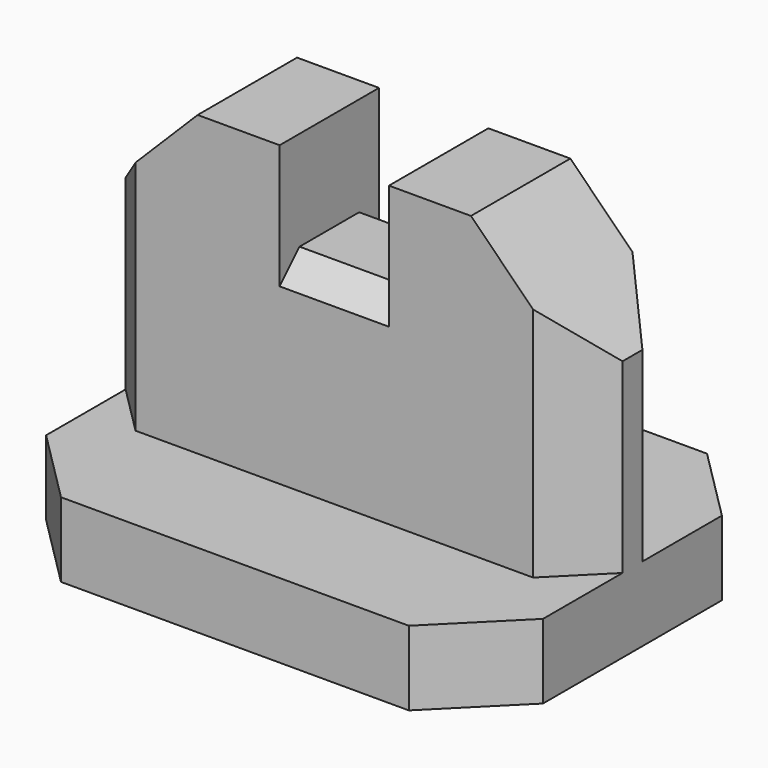
from build123d import *

# Parameters (mm, degrees)
F0_W     = 7.8
F0_H     = 5
F0_W_2   = 4.4
F1_DEPTH = 3
F2_DEPTH = 12
F3_DEPTH = 8
F4_SIZE  = 2
F5_SIZE  = 4.5
F6_SIZE  = 3
F7_SIZE  = 1


with BuildPart() as f1:
    # F0 (on Top) → F1 (new body)
    with BuildSketch(Plane.XY):
        Polygon((0, 15), (0, 10), (7.8, 10), (12.2, 10), (20, 10), (20, 15), align=None)
        with Locations((3.9, 7.5)):
            Rectangle(F0_W, F0_H)
        with Locations((10, 7.5)):
            Rectangle(F0_W_2, F0_H)
        with Locations((16.1, 7.5)):
            Rectangle(F0_W, F0_H)
        Polygon((0, 5), (0, 0), (20, 0), (20, 5), (12.2, 5), (7.8, 5), align=None)
    extrude(amount=-F1_DEPTH)

    # F0 (on Top) → F2 (join)
    with BuildSketch(Plane.XY):
        with Locations((3.9, 7.5)):
            Rectangle(F0_W, F0_H)
        with Locations((16.1, 7.5)):
            Rectangle(F0_W, F0_H)
    extrude(amount=F2_DEPTH)

    # F0 (on Top) → F3 (join)
    with BuildSketch(Plane.XY):
        with Locations((10, 7.5)):
            Rectangle(F0_W_2, F0_H)
    extrude(amount=F3_DEPTH)

    # F4
    f4_edges = [f1.edges().sort_by_distance(p)[0] for p in [
        (0, 10, 6),
        (0, 5, 6),
        (20, 5, 6),
        (20, 10, 6),
    ]]
    chamfer(f4_edges, length=F4_SIZE)

    # F5
    f5_edges = [f1.edges().sort_by_distance(p)[0] for p in [
        (0, 7.5, 12),
        (20, 7.5, 12),
    ]]
    chamfer(f5_edges, length=F5_SIZE)

    # F6
    f6_edges = [f1.edges().sort_by_distance(p)[0] for p in [
        (0, 15, -1.5),
        (0, 0, -1.5),
        (20, 0, -1.5),
        (20, 15, -1.5),
    ]]
    chamfer(f6_edges, length=F6_SIZE)

    # F7
    f7_edges = [f1.edges().sort_by_distance(p)[0] for p in [
        (10, 5, 8),
        (10, 10, 8),
    ]]
    chamfer(f7_edges, length=F7_SIZE)


solid = f1.part
